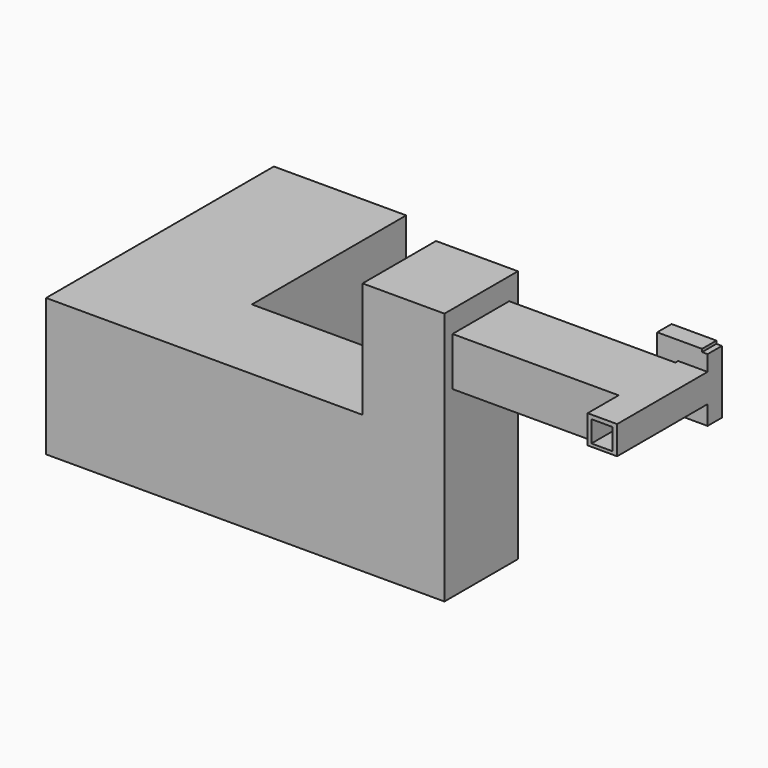
from build123d import *

# Parameters (mm, degrees)
F0_W      = 209.269605577
F0_H      = 201.645091176
F0_W_2    = 151.2103900313
F0_H_2    = 151.7591774464
F1_DEPTH  = 930.3391575813
F2_W      = 0.2076402307
F2_H      = 120.5585766584
F2_W_2    = 134.993257001
F2_H_2    = 81.0865145177
F3_DEPTH  = 77.6207819581
F4_W      = 17.644263804
F4_H      = 139.3913254142
F4_H_2    = 162.0914302766
F5_DEPTH  = 127.2815465927
F6_W      = 503.354460001
F6_H      = 344.5896953344
F6_W_2    = 202.3705542088
F6_H_2    = 94.8067847639
F7_DEPTH  = 1179.8084974289
F8_W      = 652.0807296038
F8_H      = 651.5993475914
F8_W_2    = 202.3705542088
F8_H_2    = 94.8067847639
F9_DEPTH  = 556.1156272888
F10_W     = 139.4962072372
F10_H     = 279.7787887976
F10_H_2   = 371.8205587938
F11_DEPTH = 25.4
F12_W     = 581.5156272888
F12_H     = 652.0807296038
F12_W_2   = 170.8229780197
F12_H_2   = 151.7756134272
F13_DEPTH = 962.5483155251
F14_W     = 581.5156272888
F14_H     = 652.0807296038
F15_DEPTH = 185.5821758509
F16_W     = 652.0807296038
F16_H     = 977.9443591833
F16_W_2   = 286.1760705709
F16_H_2   = 227.0501852036
F17_DEPTH = 2222.0644950867
F18_W     = 652.0807296038
F18_H     = 977.9443591833
F19_DEPTH = 25.4
F20_W     = 939.9594037414
F20_H     = 977.9443591833
F20_W_2   = 421.4870929718
F20_H_2   = 459.4081640244
F21_DEPTH = 1369.6082830429


with BuildPart() as f1:
    # F0 (on Front) → F1 (new body)
    with BuildSketch(Plane.XZ):
        with Locations((3.2069273293, 2.4884268641)):
            Rectangle(F0_W, F0_H)
        with Locations((1.1598430574, -1.2602582574)):
            Rectangle(F0_W_2, F0_H_2, mode=Mode.SUBTRACT)
    extrude(amount=F1_DEPTH)

    # F2 (on face) → F3 (join)
    with BuildSketch(Plane(origin=(0, 0, 0), x_dir=(-1, 0, 0), z_dir=(0, 1, 0))):
        with Locations((-107.7379100025, 43.031684123)):
            Rectangle(F2_W, F2_H)
        Polygon((-107.6340898871, 126.5658885241), (-107.6340898871, 103.3109724522), (27.3591671139, 103.3109724522), (101.4278754592, 103.3109724522), (101.4278754592, -98.3341187239), (27.3591671139, -98.3341187239), (-107.6340898871, -98.3341187239), (-107.6340898871, -121.4749068022), (121.2418451905, -121.4749068022), (121.2418451905, 126.5658885241), align=None)
        with Locations((-40.1374613866, 43.031684123)):
            Rectangle(F2_W_2, F2_H)
        with Locations((-107.7379100025, -57.790861465)):
            Rectangle(F2_W, F2_H_2)
        with Locations((-40.1374613866, -57.790861465)):
            Rectangle(F2_W_2, F2_H_2)
    extrude(amount=-F3_DEPTH)

    # F4 (on face) → F5 (join)
    with BuildSketch(Plane(origin=(0, 0, 0), x_dir=(-1, 0, 0), z_dir=(0, 1, 0))):
        Polygon((-51.0488376021, 74.6193304658), (27.3591671139, 74.6193304658), (27.3591671139, -72.753354907), (-51.0488376021, -72.753354907), (-51.0488376021, -234.8447851837), (249.8074322939, -234.8447851837), (249.8074322939, 234.3800067902), (-68.6931014061, 234.3800067902), (-68.6931014061, 214.01065588), (-51.0488376021, 214.01065588), align=None)
        with Locations((-59.8709695041, 144.3149931729)):
            Rectangle(F4_W, F4_H)
        Polygon((-68.6931014061, -72.753354907), (-68.6931014061, 74.6193304658), (-68.6931014061, 214.01065588), (-107.8417301178, 214.01065588), (-107.8417301178, -234.8447851837), (-68.6931014061, -234.8447851837), align=None)
        with Locations((-59.8709695041, -153.7990700454)):
            Rectangle(F4_W, F4_H_2)
    extrude(amount=-F5_DEPTH)

    # F6 (on face) → F7 (join)
    with BuildSketch(Plane(origin=(-101.4278754592, 0, 0), x_dir=(0, -1, 0), z_dir=(-1, 0, 0))):
        with Locations((403.644785285, -68.9838752151)):
            Rectangle(F6_W, F6_H)
        with Locations((486.0520809889, -20.6129951403)):
            Rectangle(F6_W_2, F6_H_2, mode=Mode.SUBTRACT)
    extrude(amount=F7_DEPTH)

    # F8 (on face) → F9 (join)
    with BuildSketch(Plane(origin=(-1281.2363728881, 0, 0), x_dir=(0, -1, 0), z_dir=(-1, 0, 0))):
        with Locations((400.6932005286, -66.6338801384)):
            Rectangle(F8_W, F8_H)
        with Locations((486.0520809889, -20.6129951403)):
            Rectangle(F8_W_2, F8_H_2, mode=Mode.SUBTRACT)
    extrude(amount=F9_DEPTH)

    # F10 (on face) → F11 (join)
    with BuildSketch(Plane(origin=(-1837.3520001769, 0, 0), x_dir=(0, -1, 0), z_dir=(-1, 0, 0))):
        with Locations((656.9854617119, 119.2763992585)):
            Rectangle(F10_W, F10_H)
        Polygon((587.2373580933, -392.4335539341), (587.2373580933, -20.6129951403), (587.2373580933, 259.1657936573), (74.6528357267, 259.1657936573), (74.6528357267, -392.4335539341), align=None)
        with Locations((656.9854617119, -206.5232745372)):
            Rectangle(F10_W, F10_H_2)
    extrude(amount=F11_DEPTH)

    # F12 (on face) → F13 (join)
    with BuildSketch(Plane(origin=(0, 0, -392.4335539341), x_dir=(1, 0, 0), z_dir=(0, 0, -1))):
        with Locations((-1571.9941865325, 400.6932005286)):
            Rectangle(F12_W, F12_H)
        with Locations((-1731.448829174, 239.6930977702)):
            Rectangle(F12_W_2, F12_H_2, mode=Mode.SUBTRACT)
    extrude(amount=F13_DEPTH)

    # F14 (on face) → F15 (join)
    with BuildSketch(Plane(origin=(0, 0, -1354.9818694592), x_dir=(1, 0, 0), z_dir=(0, 0, -1))):
        with Locations((-1571.9941865325, 400.6932005286)):
            Rectangle(F14_W, F14_H)
    extrude(amount=F15_DEPTH)

    # F16 (on face) → F17 (join)
    with BuildSketch(Plane(origin=(-1862.7520001769, 0, 0), x_dir=(0, -1, 0), z_dir=(-1, 0, 0))):
        with Locations((400.6932005286, -1051.5918657184)):
            Rectangle(F16_W, F16_H)
        with Locations((312.7471879125, -1266.9408917427)):
            Rectangle(F16_W_2, F16_H_2, mode=Mode.SUBTRACT)
    extrude(amount=F17_DEPTH)

    # F18 (on face) → F19 (join)
    with BuildSketch(Plane(origin=(-4084.8164952636, 0, 0), x_dir=(0, -1, 0), z_dir=(-1, 0, 0))):
        with Locations((400.6932005286, -1051.5918657184)):
            Rectangle(F18_W, F18_H)
    extrude(amount=F19_DEPTH)

    # F20 (on face) → F21 (join)
    with BuildSketch(Plane(origin=(0, -74.6528357267, 0), x_dir=(-1, 0, 0), z_dir=(0, 1, 0))):
        with Locations((3640.2367933929, -1051.5918657184)):
            Rectangle(F20_W, F20_H)
        with Locations((3815.339922905, -918.0864691734)):
            Rectangle(F20_W_2, F20_H_2, mode=Mode.SUBTRACT)
    extrude(amount=F21_DEPTH)


solid = f1.part
